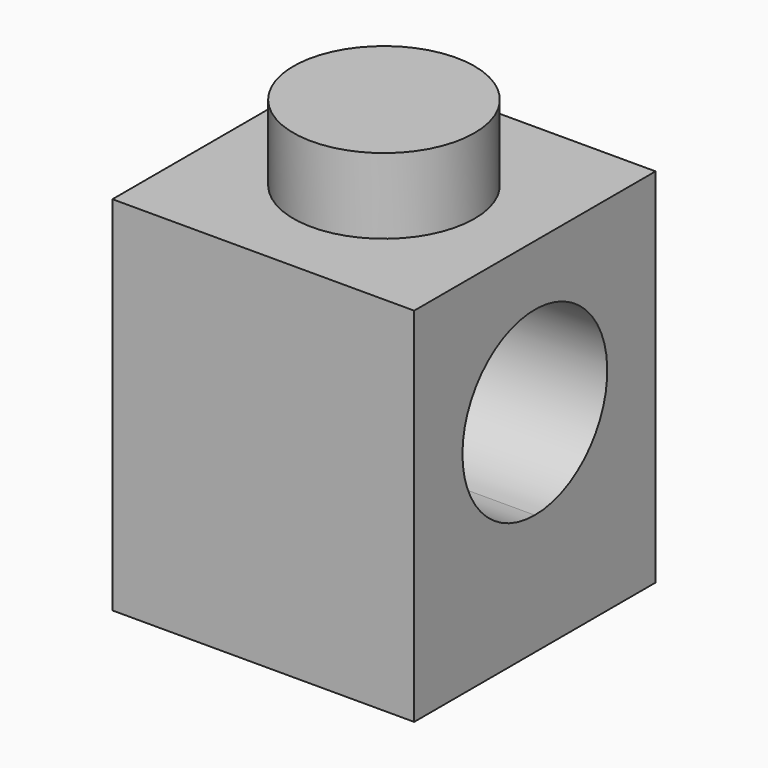
from build123d import *

# Parameters (mm, degrees)
F0_W     = 8
F0_H     = 8
F1_DEPTH = 9.6
F3_DEPTH = 25
F4_R     = 2.4
F5_DEPTH = 2


with BuildPart() as f1:
    # F0 (on Top) → F1 (new body)
    with BuildSketch(Plane.XY):
        with Locations((-0.409037, 0.409032)):
            Rectangle(F0_W, F0_H)
    extrude(amount=F1_DEPTH)

    # F2 (on face) → F3 (cut)
    with BuildSketch(Plane(origin=(-4.409037, 0, 0), x_dir=(0, -1, 0), z_dir=(-1, 0, 0))):
        with BuildLine():
            ThreePointArc((1.990968, 5.6), (-2.106088, 7.297056), (-0.409032, 3.2))
            ThreePointArc((-0.409032, 3.2), (1.288024, 3.902944), (1.990968, 5.6))
        make_face()
    extrude(amount=-F3_DEPTH, mode=Mode.SUBTRACT)

    # F4 (on face) → F5 (join)
    with BuildSketch(Plane.XY.offset(9.6)):
        with Locations((-0.409037, 0.409032)):
            Circle(F4_R)
    extrude(amount=F5_DEPTH)


solid = f1.part
